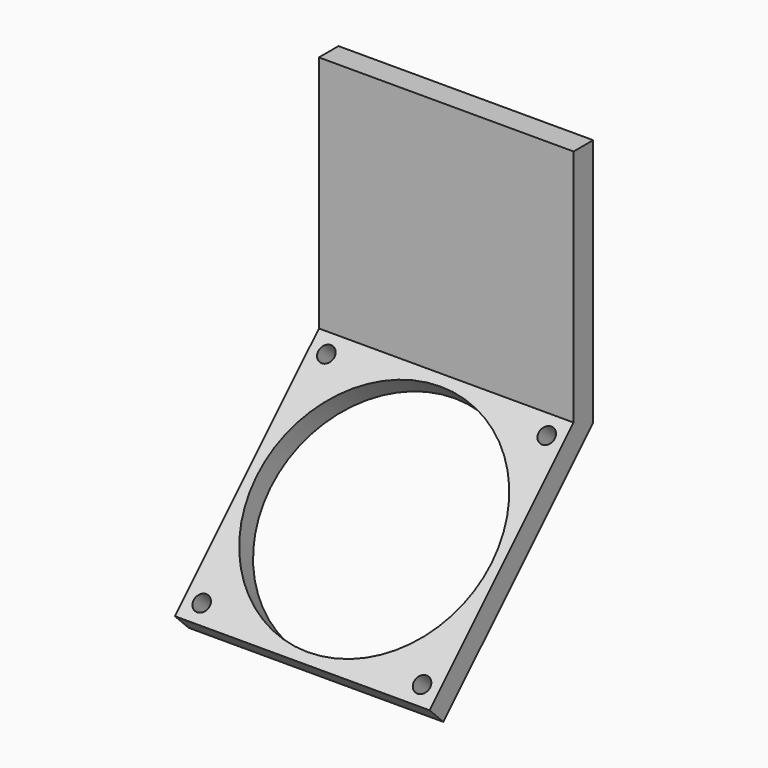
from build123d import *

# Parameters (mm, degrees)
F0_W     = 52
F0_H     = 50.8
F1_DEPTH = 5
F3_DEPTH = 52
F5_D     = 3.302
F6_R     = 24
F7_DEPTH = 32.036534


with BuildPart() as f1:
    # F0 (on Front) → F1 (new body)
    with BuildSketch(Plane.XZ):
        with Locations((26, 25.4)):
            Rectangle(F0_W, F0_H)
    extrude(amount=F1_DEPTH)

    # F2 (on face) → F3 (join, through all)
    with BuildSketch(Plane(origin=(0, 0, 0), x_dir=(0, -1, 0), z_dir=(-1, 0, 0))):
        Polygon((5, 0), (0, 0), (38.234019, -38.234019), (41.769553, -34.698485), (5, 2.071068), align=None)
    extrude(amount=-F3_DEPTH)

    # F5 (through all)
    with Locations(Plane(origin=(0, -3.535534, 3.535534), x_dir=(1, 0, 0), z_dir=(0, -0.707107, 0.707107))):
        with Locations((48.5, -5.571068), (48.5, -50.571068), (3.5, -50.571068), (3.5, -5.571068)):
            Hole(F5_D / 2)

    # F6 (on face) → F7 (cut, through all)
    with BuildSketch(Plane(origin=(0, -3.535534, 3.535534), x_dir=(1, 0, 0), z_dir=(0, -0.707107, 0.707107))):
        with Locations((26, -28.071068)):
            Circle(F6_R)
    extrude(amount=-F7_DEPTH, mode=Mode.SUBTRACT)


solid = f1.part
